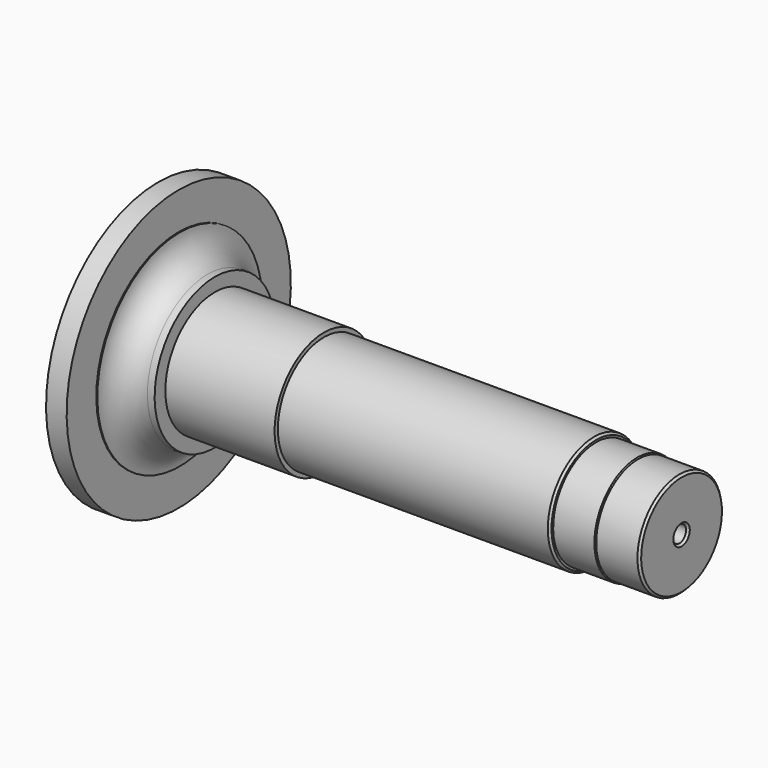
from build123d import *


with BuildPart() as f1:
    # F0 (on Front) → F1 (revolve)
    with BuildSketch(Plane.XZ):
        with BuildLine():
            Line((0, 50), (10, 40))
            Line((10, 40), (2540, 40))
            Line((2540, 40), (2550, 50))
            Line((2550, 50), (2550, 245))
            Line((2550, 245), (2540, 255))
            Line((2540, 255), (2340, 255))
            Line((2340, 255), (2335, 260))
            Line((2335, 260), (2135, 260))
            Line((2135, 260), (2135, 270))
            Line((2135, 270), (2125, 280))
            Line((2125, 280), (815, 280))
            Line((815, 280), (815, 300))
            Line((815, 300), (285, 300))
            Line((285, 300), (285, 365))
            Line((285, 365), (250, 365))
            ThreePointArc((250, 365), (154.540585, 404.540585), (115, 500))
            Line((115, 500), (110, 500))
            Line((110, 500), (110, 680))
            Line((110, 680), (10, 680))
            Line((10, 680), (10, 500))
            Line((10, 500), (0, 500))
            Line((0, 500), (0, 50))
        make_face()
    revolve(axis=Axis((1275, 0, 0), (1, 0, 0)))


solid = f1.part
